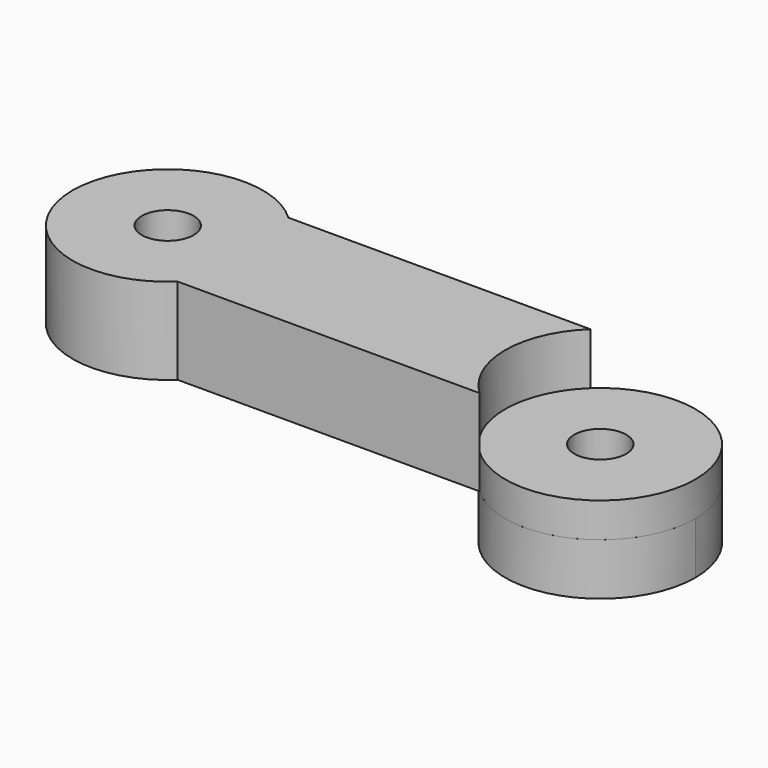
from build123d import *

# Parameters (mm, degrees)
F0_R        = 1.5
F1_DEPTH    = 3
F2_DEPTH    = 5
F1_FACE_R   = 5.5
F1_FACE_R_2 = 1.5
F3_DEPTH    = 2


with BuildPart() as f1:
    # F0 (on Top) → F1 (new body)
    with BuildSketch(Plane.XY):
        with BuildLine():
            ThreePointArc((-2.819893, -0.639665), (-6.141825, 4.410683), (-12.09481, 3.360335))
            ThreePointArc((-12.09481, 3.360335), (-13.819893, -0.639665), (-12.09481, -4.639665))
            ThreePointArc((-12.09481, -4.639665), (-6.141825, -5.690014), (-2.819893, -0.639665))
        make_face()
        with Locations((-8.319893, -0.639665)):
            Circle(F0_R, mode=Mode.SUBTRACT)
    extrude(amount=-F1_DEPTH)


with BuildPart() as f2:
    # F0 (on Top) → F2 (new body)
    with BuildSketch(Plane.XY):
        with BuildLine():
            ThreePointArc((-29.544975, 3.360335), (-28.269544, 1.538402), (-27.819893, -0.639665))
            ThreePointArc((-27.819893, -0.639665), (-28.269544, -2.817733), (-29.544975, -4.639665))
            Line((-29.544975, -4.639665), (-29.319893, -4.639665))
            Line((-29.319893, -4.639665), (-12.319893, -4.639665))
            Line((-12.319893, -4.639665), (-12.09481, -4.639665))
            ThreePointArc((-12.09481, -4.639665), (-13.819893, -0.639665), (-12.09481, 3.360335))
            Line((-12.09481, 3.360335), (-12.319893, 3.360335))
            Line((-12.319893, 3.360335), (-29.319893, 3.360335))
            Line((-29.319893, 3.360335), (-29.544975, 3.360335))
        make_face()
        with BuildLine():
            ThreePointArc((-29.544975, -4.639665), (-28.269544, -2.817733), (-27.819893, -0.639665))
            ThreePointArc((-27.819893, -0.639665), (-28.269544, 1.538402), (-29.544975, 3.360335))
            ThreePointArc((-29.544975, 3.360335), (-38.819893, -0.639665), (-29.544975, -4.639665))
        make_face()
        with Locations((-33.319893, -0.639665)):
            Circle(F0_R, mode=Mode.SUBTRACT)
    extrude(amount=F2_DEPTH)


with BuildPart() as f3:
    # F1_face (on face) → F3 (new body)
    with BuildSketch(Plane(origin=(-8.319893, -0.639665, 0), x_dir=(1, 0, 0), z_dir=(0, 0, 1))):
        Circle(F1_FACE_R)
        Circle(F1_FACE_R_2, mode=Mode.SUBTRACT)
    extrude(amount=F3_DEPTH)


solid = Compound([f1.part, f2.part, f3.part])
